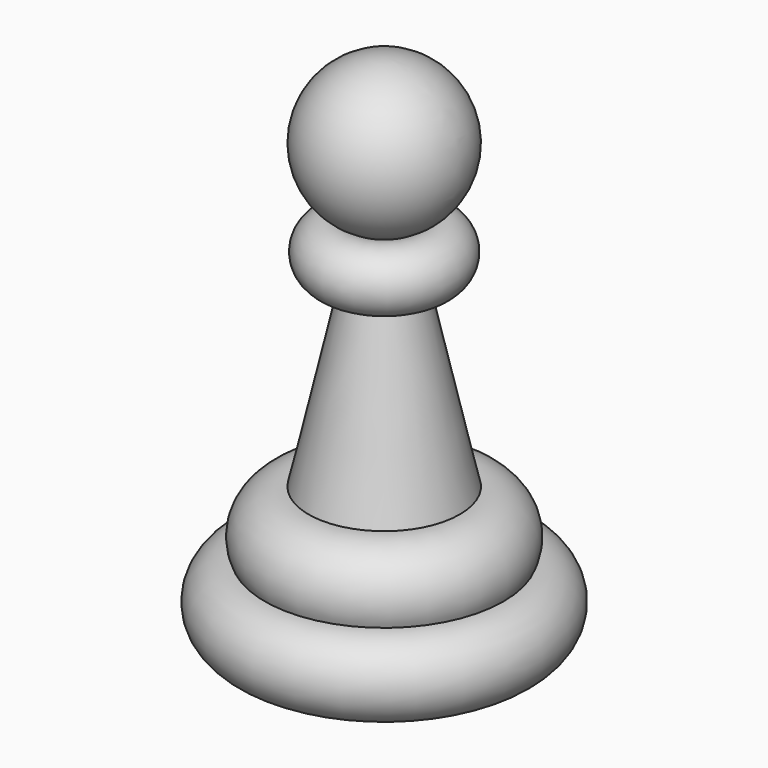
from build123d import *


with BuildPart() as f1:
    # F0 (on Front) → F1 (revolve)
    with BuildSketch(Plane.XZ):
        with BuildLine():
            Line((0, 27.53668), (0, 0))
            Line((0, 0), (6.35, 0))
            ThreePointArc((6.35, 0), (8.418205, 2.068205), (6.35, 4.136411))
            ThreePointArc((6.35, 4.136411), (6.135931, 6.461671), (4.018229, 7.445539))
            Line((4.018229, 7.445539), (1.89093, 16.900193))
            ThreePointArc((1.89093, 16.900193), (3.949361, 18.436573), (1.89093, 19.972954))
            ThreePointArc((1.89093, 19.972954), (3.898255, 24.493014), (0, 27.53668))
        make_face()
    revolve(axis=Axis((0, 0, 13.76834), (0, 0, 1)))


solid = f1.part
